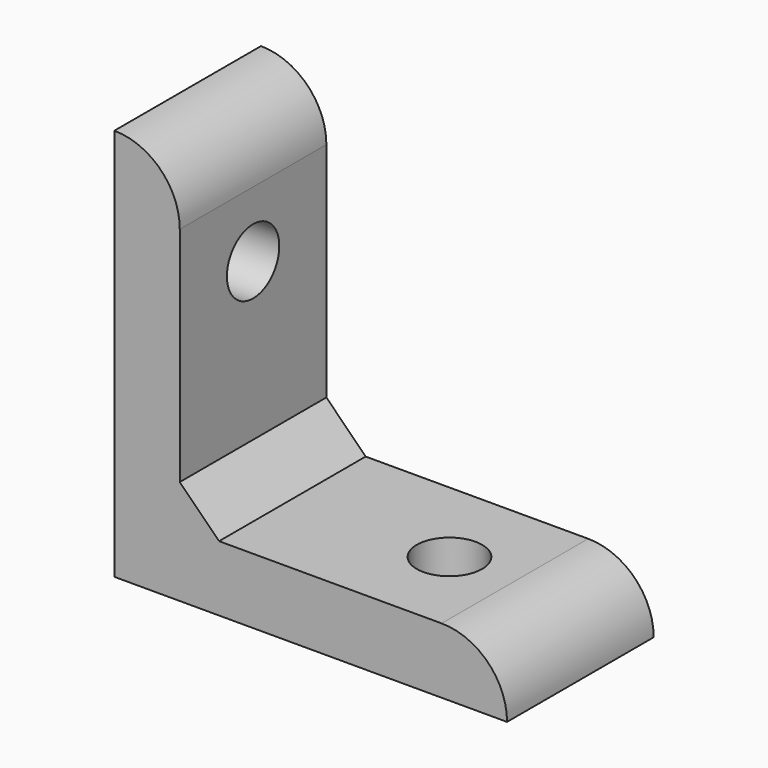
from build123d import *

# Parameters (mm, degrees)
F1_DEPTH = 14
F2_R     = 2.5
F3_DEPTH = 5
F4_R     = 2.5
F5_DEPTH = 5


with BuildPart() as f1:
    # F0 (on Front) → F1 (new body)
    with BuildSketch(Plane.XZ):
        Polygon((-6.288725, 7.019924), (-11.288725, 7.019924), (-11.288725, -12.980076), (8.711275, -12.980076), (8.711275, -7.980076), (-3.288725, -7.980076), (-6.288725, -4.980076), align=None)
        with BuildLine():
            Line((8.711275, -7.980076), (8.711275, -12.980076))
            Line((8.711275, -12.980076), (18.711275, -12.980076))
            ThreePointArc((18.711275, -12.980076), (17.246809, -9.444542), (13.711275, -7.980076))
            Line((13.711275, -7.980076), (8.711275, -7.980076))
        make_face()
        with BuildLine():
            ThreePointArc((-6.288725, 12.019924), (-7.753191, 15.555458), (-11.288725, 17.019924))
            Line((-11.288725, 17.019924), (-11.288725, 7.019924))
            Line((-11.288725, 7.019924), (-6.288725, 7.019924))
            Line((-6.288725, 7.019924), (-6.288725, 12.019924))
        make_face()
    extrude(amount=-F1_DEPTH)

    # F2 (on face) → F3 (cut)
    with BuildSketch(Plane(origin=(-11.288725, 0, 0), x_dir=(0, -1, 0), z_dir=(-1, 0, 0))):
        with Locations((-7, 7.019924)):
            Circle(F2_R)
    extrude(amount=-F3_DEPTH, mode=Mode.SUBTRACT)

    # F4 (on face) → F5 (cut)
    with BuildSketch(Plane(origin=(0, 0, -12.980076), x_dir=(1, 0, 0), z_dir=(0, 0, -1))):
        with Locations((8.711275, -7)):
            Circle(F4_R)
    extrude(amount=-F5_DEPTH, mode=Mode.SUBTRACT)


solid = f1.part
